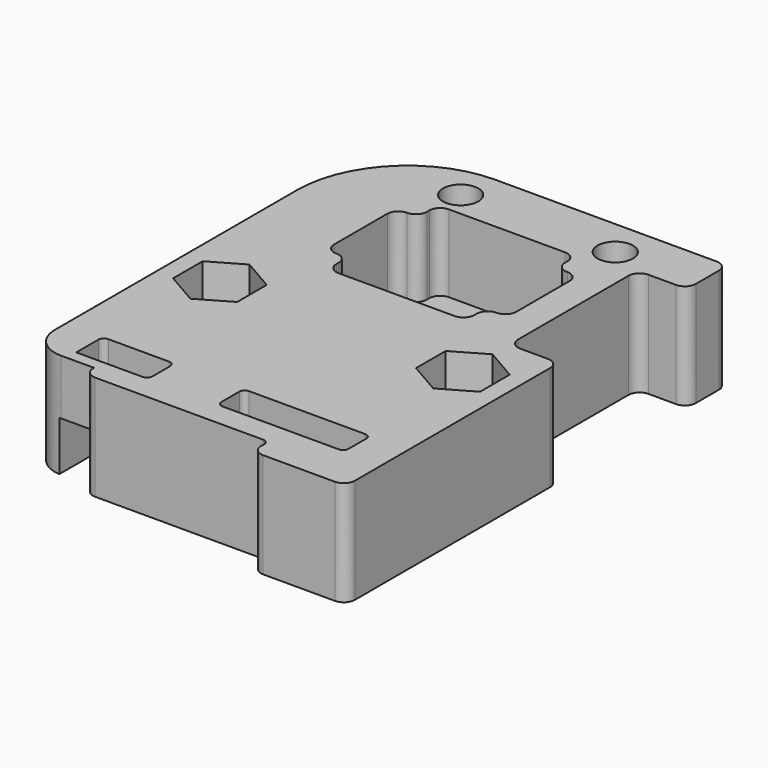
from build123d import *

# Parameters (mm, degrees)
SKETCH021_R     = 3.65
SKETCH021_R_2   = 1.6
SKETCH021_W     = 6.5
SKETCH021_H     = 3
SKETCH021_W_2   = 11.5
PAD009_DEPTH    = 9.5
POCKET012_DEPTH = 7
POCKET010_DEPTH = 3.5
SKETCH022_W     = 25.7
SKETCH022_H     = 13
POCKET011_DEPTH = 3
SKETCH023_R     = 1.8
POCKET009_DEPTH = 1.5
FILLET006_R     = 1
FILLET007_R     = 0.99
FILLET008_R     = 0.5


with BuildPart() as part:
    # Sketch021 → Pad009 (new body)
    with BuildSketch(Plane.XY):
        with BuildLine():
            Line((15.5, -31.35), (15.5, -7.25))
            Line((15.5, -7.25), (11, -7.25))
            Line((11, -7.25), (11, 7.25))
            Line((11, 7.25), (15.5, 7.25))
            Line((15.5, 7.25), (15.5, 11.85))
            Line((15.5, 11.85), (-5.5, 11.85))
            ThreePointArc((-5.5, 11.85), (-12.571068, 8.921068), (-15.5, 1.85))
            Line((-15.5, 1.85), (-15.5, -25.57))
            ThreePointArc((-15.5, -25.57), (-14.679899, -27.549899), (-12.7, -28.37))
            Line((-9.7, -28.37), (-12.7, -28.37))
            Line((-9.7, -29.49), (-9.7, -28.37))
            Line((-9.7, -29.49), (7, -29.49))
            Line((7, -29.49), (7, -31.35))
            Line((7, -31.35), (15.5, -31.35))
        make_face()
        Circle(SKETCH021_R, mode=Mode.SUBTRACT)
        with Locations((-11, -12.5)):
            Circle(SKETCH021_R_2, mode=Mode.SUBTRACT)
        with Locations((11, -12.5)):
            Circle(SKETCH021_R_2, mode=Mode.SUBTRACT)
        with Locations((-6, 8.5)):
            Circle(SKETCH021_R_2, mode=Mode.SUBTRACT)
        with Locations((8, 8.5)):
            Circle(SKETCH021_R_2, mode=Mode.SUBTRACT)
        with Locations((-8.91, -25.81)):
            Rectangle(SKETCH021_W, SKETCH021_H, mode=Mode.SUBTRACT)
        with Locations((6.35, -25.81)):
            Rectangle(SKETCH021_W_2, SKETCH021_H, mode=Mode.SUBTRACT)
    extrude(amount=PAD009_DEPTH)

    # Sketch019 (on Face29 of Pad009) → Pocket012 (cut)
    with BuildSketch(Plane.XY.offset(9.5)):
        Polygon((8.25, -4), (6.25, -4), (6.25, -6.25), (-6.25, -6.25), (-6.25, -4), (-8.25, -4), (-8.25, 4), (-6.25, 4), (-6.25, 6.25), (6.25, 6.25), (6.25, 4), (8.25, 4), align=None)
    extrude(amount=-POCKET012_DEPTH, mode=Mode.SUBTRACT)

    # Sketch020 (on Face5 of Pocket012) → Pocket010 (cut)
    with BuildSketch(Plane.XY.offset(9.5)):
        Polygon((-8.1, -14.174316), (-8.1, -10.825684), (-11, -9.151368), (-13.9, -10.825684), (-13.9, -14.174316), (-11, -15.848632), align=None)
        Polygon((13.9, -14.174316), (13.9, -10.825684), (11, -9.151368), (8.1, -10.825684), (8.1, -14.174316), (11, -15.848632), align=None)
    extrude(amount=-POCKET010_DEPTH, mode=Mode.SUBTRACT)

    # Sketch022 (on Face4 of Pocket010) → Pocket011 (cut)
    with BuildSketch(Plane(origin=(0, 0, 0), x_dir=(1, 0, 0), z_dir=(0, 0, -1))):
        with Locations((0, 22)):
            Rectangle(SKETCH022_W, SKETCH022_H)
    extrude(amount=-POCKET011_DEPTH, mode=Mode.SUBTRACT)

    # Sketch023 (on Face7 of Pocket011) → Pocket009 (cut)
    with BuildSketch(Plane(origin=(0, 0, 3), x_dir=(1, 0, 0), z_dir=(0, 0, -1))):
        with Locations((0, 22)):
            Circle(SKETCH023_R)
        with BuildLine():
            Line((1.5, 15.5), (12.85, 15.5))
            Line((12.85, 15.5), (12.85, 20.5))
            Line((12.85, 20.5), (3.5, 20.5))
            ThreePointArc((3.5, 20.5), (2.085786, 19.914214), (1.5, 18.5))
            Line((1.5, 18.5), (1.5, 15.5))
        make_face()
        with BuildLine():
            Line((-1.5, 15.5), (-12.85, 15.5))
            Line((-12.85, 15.5), (-12.85, 20.5))
            Line((-12.85, 20.5), (-3.5, 20.5))
            ThreePointArc((-1.5, 18.5), (-2.085786, 19.914214), (-3.5, 20.5))
            Line((-1.5, 18.5), (-1.5, 15.5))
        make_face()
        with BuildLine():
            Line((12.85, 23.5), (3.5, 23.5))
            ThreePointArc((1.5, 25.5), (2.085786, 24.085786), (3.5, 23.5))
            Line((1.5, 25.5), (1.5, 28.5))
            Line((1.5, 28.5), (12.85, 28.5))
            Line((12.85, 28.5), (12.85, 23.5))
        make_face()
        with BuildLine():
            Line((-12.85, 23.5), (-3.5, 23.5))
            ThreePointArc((-3.5, 23.5), (-2.085786, 24.085786), (-1.5, 25.5))
            Line((-1.5, 25.5), (-1.5, 28.5))
            Line((-1.5, 28.5), (-12.85, 28.5))
            Line((-12.85, 28.5), (-12.85, 23.5))
        make_face()
    extrude(amount=-POCKET009_DEPTH, mode=Mode.SUBTRACT)

    # Fillet006
    fillet006_edges = [part.edges().sort_by_distance(p)[0] for p in [
        (15.5, 11.85, 4.75),
        (15.5, 7.25, 4.75),
        (11, 7.25, 4.75),
        (15.5, -7.25, 4.75),
        (15.5, -31.35, 4.75),
        (7, -31.35, 4.75),
        (-9.7, -29.49, 4.75),
        (11, -7.25, 4.75),
    ]]
    fillet(fillet006_edges, radius=FILLET006_R)

    # Fillet007
    fillet007_edges = [part.edges().sort_by_distance(p)[0] for p in [
        (-8.25, 4, 6),
        (-6.25, 4, 6),
        (-6.25, 6.25, 6),
        (6.25, 4, 6),
        (-6.25, -4, 6),
        (-8.25, -4, 6),
        (-6.25, -6.25, 6),
        (6.25, -6.25, 6),
        (6.25, -4, 6),
        (8.25, -4, 6),
        (6.25, 6.25, 6),
        (8.25, 4, 6),
    ]]
    fillet(fillet007_edges, radius=FILLET007_R)

    # Fillet008
    fillet008_edges = [part.edges().sort_by_distance(p)[0] for p in [
        (-12.85, -15.5, 1.5),
        (-12.85, -15.5, 3.75),
        (-12.16, -24.31, 7),
        (12.85, -15.5, 3.75),
        (12.85, -15.5, 1.5),
        (-1.5, -15.5, 3.75),
        (1.892549, -24.31, 3.75),
        (-5.66, -27.31, 7),
        (-1.5, -28.5, 3.75),
        (-1.8, -22, 4.5),
        (12.1, -27.31, 7),
        (12.85, -28.5, 3.75),
        (12.85, -28.5, 1.5),
        (12.85, -20.5, 3.75),
        (12.85, -23.5, 3.75),
        (1.5, -28.5, 3.75),
        (0.6, -27.31, 6.25),
        (0.6, -24.31, 6.25),
        (1.5, -15.5, 3.75),
        (12.1, -24.31, 7),
        (-5.66, -24.31, 7),
        (-12.85, -23.5, 3.75),
        (-12.85, -20.5, 3.75),
        (7, -29.49, 4.75),
    ]]
    fillet(fillet008_edges, radius=FILLET008_R)


solid = part.part
